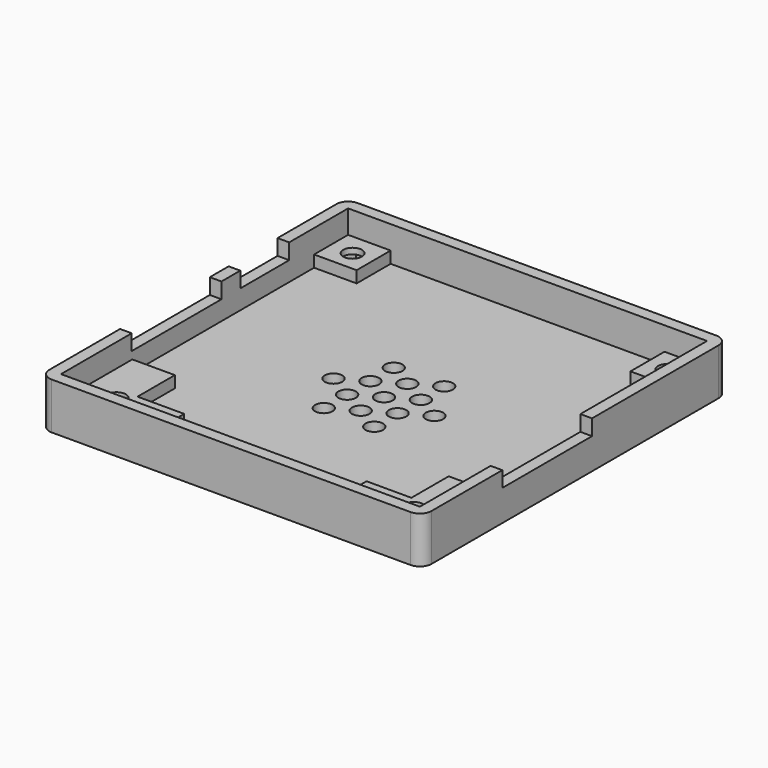
from build123d import *

# Parameters (mm, degrees)
F0_W          = 65.6000001021
F0_H          = 65.6000001021
F0_W_2        = 61.6
F0_H_2        = 61.6
F0_R          = 1.6
F1_DEPTH      = 2
F2_DEPTH      = 6
F3_W          = 7.3
F3_H          = 7.3
F4_DEPTH      = 2
F5_DEPTH      = 6.001
F6_W          = 19.25
F6_H          = 2.69
F7_DEPTH      = 2.001000051
F7_DEPTH_BACK = 63.601000051
F8_W          = 10.5
F8_H          = 2.69
F9_DEPTH      = 2.001000051
F11_DEPTH     = 3
F12_R         = 1.5
F13_DEPTH     = 8.001
F14_R         = 2


with BuildPart() as f1:
    # F0 (on Top) → F1 (new body)
    with BuildSketch(Plane.XY):
        with Locations((30.5, -30.5)):
            Rectangle(F0_W, F0_H)
        with Locations((30.5, -30.5)):
            Rectangle(F0_W_2, F0_H_2, mode=Mode.SUBTRACT)
        with Locations((30.5, -30.5)):
            Rectangle(F0_W_2, F0_H_2)
        with Locations((5, -56)):
            Circle(F0_R, mode=Mode.SUBTRACT)
        with Locations((56, -56)):
            Circle(F0_R, mode=Mode.SUBTRACT)
        with Locations((3.5, -3.5)):
            Circle(F0_R, mode=Mode.SUBTRACT)
        with Locations((57.5, -3.5)):
            Circle(F0_R, mode=Mode.SUBTRACT)
    extrude(amount=-F1_DEPTH)

    # F0 (on Top) → F2 (join)
    with BuildSketch(Plane.XY):
        with Locations((30.5, -30.5)):
            Rectangle(F0_W, F0_H)
        with Locations((30.5, -30.5)):
            Rectangle(F0_W_2, F0_H_2, mode=Mode.SUBTRACT)
    extrude(amount=F2_DEPTH)

    # F3 (on face) → F4 (join)
    with BuildSketch(Plane.XY):
        with Locations((57.65, -3.35)):
            Rectangle(F3_W, F3_H)
        with Locations((3.35, -3.35)):
            Rectangle(F3_W, F3_H)
        Polygon((7, -46), (-0.3, -46), (-0.3, -61.3), (15, -61.3), (15, -54), (7, -54), align=None)
        Polygon((61.3, -61.3), (61.3, -46), (54, -46), (54, -54), (46.3, -54), (46.3, -61.3), align=None)
    extrude(amount=F4_DEPTH)

    # F0 (on Top) → F5 (cut, through all)
    with BuildSketch(Plane.XY):
        with Locations((3.5, -3.5)):
            Circle(F0_R)
        with Locations((57.5, -3.5)):
            Circle(F0_R)
        with Locations((5, -56)):
            Circle(F0_R)
        with Locations((56, -56)):
            Circle(F0_R)
    extrude(amount=F5_DEPTH, mode=Mode.SUBTRACT)

    # F6 (on face) → F7 (cut, two sides)
    with BuildSketch(Plane(origin=(61.3, 0, 0), x_dir=(0, -1, 0), z_dir=(-1, 0, 0))) as f7_sk:
        with Locations((36.496, 4.655)):
            Rectangle(F6_W, F6_H)
    extrude(amount=-F7_DEPTH, mode=Mode.SUBTRACT)
    extrude(f7_sk.sketch, amount=F7_DEPTH_BACK, mode=Mode.SUBTRACT)

    # F8 (on face) → F9 (cut, through all)
    with BuildSketch(Plane.YZ.offset(-0.3)):
        with Locations((-17.588, 4.655)):
            Rectangle(F8_W, F8_H)
    extrude(amount=-F9_DEPTH, mode=Mode.SUBTRACT)

    # F10 (on face) → F11 (cut)
    with BuildSketch(Plane(origin=(0, 0, -2), x_dir=(1, 0, 0), z_dir=(0, 0, -1))):
        Polygon((1.9122867597, 6.25), (0.3245735195, 3.5), (1.9122867597, 0.75), (5.0877132403, 0.75), (6.6754264805, 3.5), (5.0877132403, 6.25), align=None)
        Polygon((55.9122867597, 0.75), (59.0877132403, 0.75), (60.6754264805, 3.5), (59.0877132403, 6.25), (55.9122867597, 6.25), (54.3245735195, 3.5), align=None)
        Polygon((6.5877132403, 53.25), (8.1754264805, 56), (6.5877132403, 58.75), (3.4122867597, 58.75), (1.8245735195, 56), (3.4122867597, 53.25), align=None)
        Polygon((54.4122867597, 53.25), (57.5877132403, 53.25), (59.1754264805, 56), (57.5877132403, 58.75), (54.4122867597, 58.75), (52.8245735195, 56), align=None)
    extrude(amount=-F11_DEPTH, mode=Mode.SUBTRACT)

    # F12 (on face) → F13 (cut, through all)
    with BuildSketch(Plane(origin=(0, 0, -2), x_dir=(1, 0, 0), z_dir=(0, 0, -1))):
        with Locations((30.5, 30.5)):
            Circle(F12_R)
        with Locations((30.5, 35.5)):
            Circle(F12_R)
        with Locations((26.1698729811, 33)):
            Circle(F12_R)
        with Locations((26.1698729811, 28)):
            Circle(F12_R)
        with Locations((30.5, 25.5)):
            Circle(F12_R)
        with Locations((34.8301270189, 28)):
            Circle(F12_R)
        with Locations((34.8301270189, 33)):
            Circle(F12_R)
        with Locations((26.1698729811, 38)):
            Circle(F12_R)
        with Locations((21.8397459622, 30.5)):
            Circle(F12_R)
        with Locations((26.1698729811, 23)):
            Circle(F12_R)
        with Locations((34.8301270189, 23)):
            Circle(F12_R)
        with Locations((39.1602540378, 30.5)):
            Circle(F12_R)
        with Locations((34.8301270189, 38)):
            Circle(F12_R)
    extrude(amount=-F13_DEPTH, mode=Mode.SUBTRACT)

    # F14
    f14_edges = [f1.edges().sort_by_distance(p)[0] for p in [
        (-2.3, -63.3, 2),
        (-2.3, 2.3, 2),
        (63.3, 2.3, 2),
        (63.3, -63.3, 2),
    ]]
    fillet(f14_edges, radius=F14_R)


solid = f1.part
